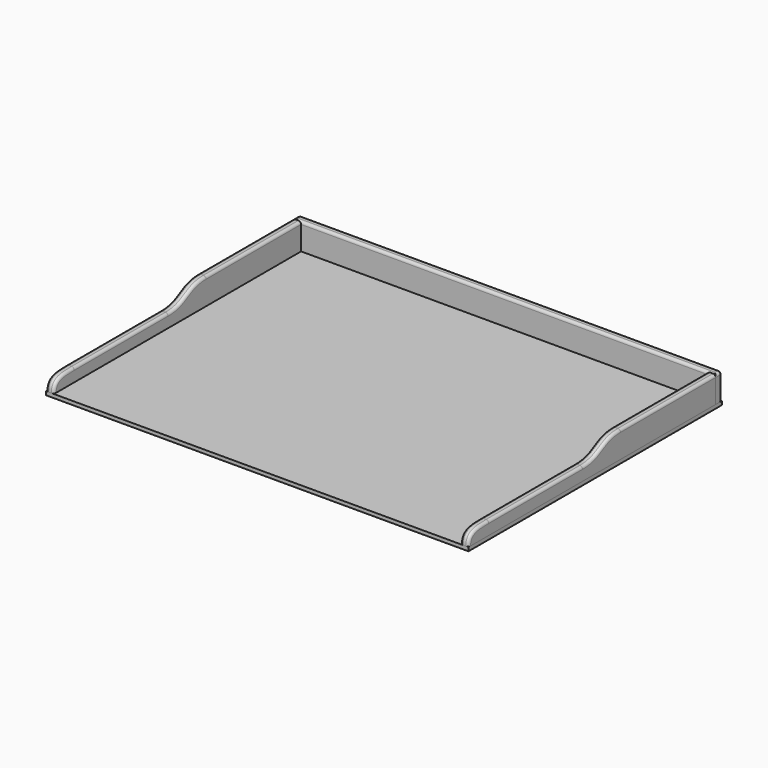
from build123d import *

# Parameters (mm, degrees)
F2_W      = 800
F2_H      = 600
F3_DEPTH  = 6
F4_W      = 800
F4_H      = 600
F5_DEPTH  = 1
F6_W      = 800
F6_H      = 15
F7_DEPTH  = 50
F8_W      = 15
F8_H      = 585
F9_DEPTH  = 50
F11_DEPTH = 800.001
F12_R     = 5
F12_2_R   = 5
F12_3_R   = 5


with BuildPart() as f3:
    # F2 (on Top) → F3 (new body)
    with BuildSketch(Plane.XY):
        Rectangle(F2_W, F2_H)
    extrude(amount=F3_DEPTH)


with BuildPart() as f5:
    # F4 (on face) → F5 (new body)
    with BuildSketch(Plane(origin=(0, 0, 0), x_dir=(1, 0, 0), z_dir=(0, 0, -1))):
        Rectangle(F4_W, F4_H)
    extrude(amount=F5_DEPTH)


with BuildPart() as f7:
    # F6 (on face) → F7 (new body)
    with BuildSketch(Plane.XY.offset(6)):
        with Locations((0, 292.5)):
            Rectangle(F6_W, F6_H)
    extrude(amount=F7_DEPTH)

    # F12#3
    f12_3_edges = [f7.edges().sort_by_distance(p)[0] for p in [
        (0, 285, 56),
        (0, 300, 56),
        (400, 300, 31),
        (-400, 300, 31),
        (-400, 292.5, 56),
        (400, 292.5, 56),
    ]]
    fillet(f12_3_edges, radius=F12_3_R)


with BuildPart() as f9:
    # F8 (on face) → F9 (new body)
    with BuildSketch(Plane.XY.offset(6)):
        with Locations((-392.5, -7.5)):
            Rectangle(F8_W, F8_H)
    extrude(amount=F9_DEPTH)


with BuildPart() as f9b:
    # F8 (on face) → F9, piece 2 (new body)
    with BuildSketch(Plane.XY.offset(6)):
        with Locations((392.5, -7.5)):
            Rectangle(F8_W, F8_H)
    extrude(amount=F9_DEPTH)


with BuildPart() as f11_tool:
    # F10 (on face) → F11 (new body, through all)
    with BuildSketch(Plane(origin=(-400, 0, 0), x_dir=(0, -1, 0), z_dir=(-1, 0, 0))):
        with BuildLine():
            Line((300, 56), (-60, 56))
            add(Edge.make_bspline(
                [(-60, 56), (-15, 56), (-15, 31), (30, 31)],
                knots=[0, 0, 0, 0, 93.4077084613, 93.4077084613, 93.4077084613, 93.4077084613], degree=3))
            Line((30, 31), (252, 31))
            add(Edge.make_bspline(
                [(300, 6), (300, 31), (276, 31), (252, 31)],
                knots=[0, 0, 0, 0, 54.1202365109, 54.1202365109, 54.1202365109, 54.1202365109], degree=3))
            Line((300, 6), (300, 56))
        make_face()
    extrude(amount=-F11_DEPTH)


with BuildPart() as f9_1:
    add(f9.part)

    # F11: cut by f11_tool
    add(f11_tool.part, mode=Mode.SUBTRACT)

    # F12
    f12_edges = [f9_1.edges().sort_by_distance(p)[0] for p in [
        (-400, -141, 31),
        (-400, -282.790998, 28.564625),
        (-385, -141, 31),
        (-385, -282.790916, 28.564648),
    ]]
    fillet(f12_edges, radius=F12_R)


with BuildPart() as f9b_1:
    add(f9b.part)

    # F11: cut by f11_tool
    add(f11_tool.part, mode=Mode.SUBTRACT)

    # F12#2
    f12_2_edges = [f9b_1.edges().sort_by_distance(p)[0] for p in [
        (400, -141, 31),
        (400, -282.790916, 28.564648),
        (385, -282.790916, 28.564648),
        (385, -141, 31),
    ]]
    fillet(f12_2_edges, radius=F12_2_R)


solid = Compound([f3.part, f5.part, f7.part, f9_1.part, f9b_1.part])
